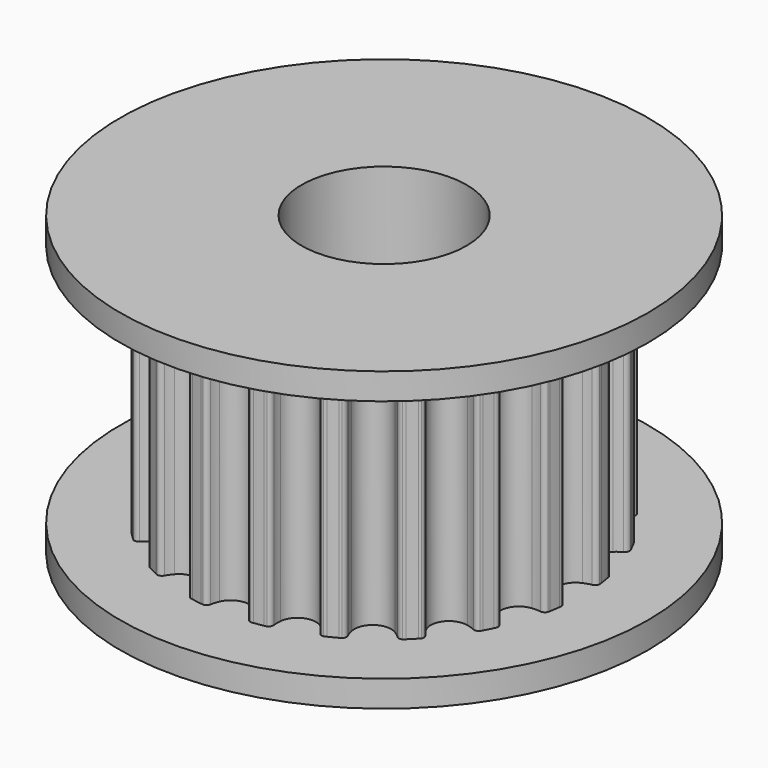
from build123d import *

# Parameters (mm, degrees)
F1_DEPTH = 7.4
F2_R     = 8
F3_DEPTH = 0.8
F4_R     = 8
F5_DEPTH = 0.8
F6_R     = 2.5
F7_DEPTH = 9.001


with BuildPart() as f1:
    # F0 (on Top) → F1 (new body)
    with BuildSketch(Plane.XY):
        with BuildLine():
            ThreePointArc((-0.513747, -5.595026), (0, -5.25), (0.513747, -5.595026))
            ThreePointArc((0.513747, -5.595026), (0.559269, -5.712589), (0.589638, -5.834946))
            ThreePointArc((0.589638, -5.834946), (0.634012, -5.91692), (0.718237, -5.956856))
            ThreePointArc((0.718237, -5.956856), (0.75551, -5.952244), (0.792754, -5.947398))
            ThreePointArc((0.792754, -5.947398), (0.938607, -5.92613), (1.083893, -5.901286))
            ThreePointArc((1.083893, -5.901286), (1.120812, -5.894386), (1.157686, -5.887254))
            ThreePointArc((1.157686, -5.887254), (1.225448, -5.823246), (1.242318, -5.731572))
            ThreePointArc((1.242318, -5.731572), (1.233391, -5.605819), (1.240356, -5.479943))
            ThreePointArc((1.240356, -5.479943), (1.622339, -4.993047), (2.217561, -5.162429))
            ThreePointArc((2.217561, -5.162429), (2.297184, -5.260172), (2.363877, -5.367155))
            ThreePointArc((2.363877, -5.367155), (2.43141, -5.431405), (2.523854, -5.44336))
            ThreePointArc((2.523854, -5.44336), (2.557877, -5.427455), (2.591801, -5.411337))
            ThreePointArc((2.591801, -5.411337), (2.723943, -5.346039), (2.854442, -5.277515))
            ThreePointArc((2.854442, -5.277515), (2.887421, -5.259544), (2.920286, -5.241367))
            ThreePointArc((2.920286, -5.241367), (2.964952, -5.159552), (2.952668, -5.067151))
            ThreePointArc((2.952668, -5.067151), (2.905317, -4.950312), (2.873044, -4.828444))
            ThreePointArc((2.873044, -4.828444), (3.085873, -4.247339), (3.704304, -4.224498))
            ThreePointArc((3.704304, -4.224498), (3.810234, -4.292852), (3.906722, -4.37399))
            ThreePointArc((3.906722, -4.37399), (3.990805, -4.414226), (4.082418, -4.397029))
            ThreePointArc((4.082418, -4.397029), (4.109862, -4.371389), (4.137144, -4.345577))
            ThreePointArc((4.137144, -4.345577), (4.242641, -4.242641), (4.345577, -4.137144))
            ThreePointArc((4.345577, -4.137144), (4.371389, -4.109862), (4.397029, -4.082418))
            ThreePointArc((4.397029, -4.082418), (4.414226, -3.990805), (4.37399, -3.906722))
            ThreePointArc((4.37399, -3.906722), (4.292852, -3.810234), (4.224498, -3.704304))
            ThreePointArc((4.224498, -3.704304), (4.247339, -3.085873), (4.828444, -2.873044))
            ThreePointArc((4.828444, -2.873044), (4.950312, -2.905317), (5.067151, -2.952668))
            ThreePointArc((5.067151, -2.952668), (5.159552, -2.964952), (5.241367, -2.920286))
            ThreePointArc((5.241367, -2.920286), (5.259544, -2.887421), (5.277515, -2.854442))
            ThreePointArc((5.277515, -2.854442), (5.346039, -2.723943), (5.411337, -2.591801))
            ThreePointArc((5.411337, -2.591801), (5.443243, -2.467372), (5.367155, -2.363877))
            ThreePointArc((5.367155, -2.363877), (5.260172, -2.297184), (5.162429, -2.217561))
            ThreePointArc((5.162429, -2.217561), (4.993047, -1.622339), (5.479943, -1.240356))
            ThreePointArc((5.479943, -1.240356), (5.605819, -1.233391), (5.731572, -1.242318))
            ThreePointArc((5.731572, -1.242318), (5.823246, -1.225448), (5.887254, -1.157686))
            ThreePointArc((5.887254, -1.157686), (5.894386, -1.120812), (5.901286, -1.083893))
            ThreePointArc((5.901286, -1.083893), (5.92613, -0.938607), (5.947398, -0.792754))
            ThreePointArc((5.947398, -0.792754), (5.952244, -0.75551), (5.956856, -0.718237))
            ThreePointArc((5.956856, -0.718237), (5.91692, -0.634012), (5.834946, -0.589638))
            ThreePointArc((5.834946, -0.589638), (5.712589, -0.559269), (5.595026, -0.513747))
            ThreePointArc((5.595026, -0.513747), (5.25, 0), (5.595026, 0.513747))
            ThreePointArc((5.595026, 0.513747), (5.712589, 0.559269), (5.834946, 0.589638))
            ThreePointArc((5.834946, 0.589638), (5.91692, 0.634012), (5.956856, 0.718237))
            ThreePointArc((5.956856, 0.718237), (5.952244, 0.75551), (5.947398, 0.792754))
            ThreePointArc((5.947398, 0.792754), (5.92613, 0.938607), (5.901286, 1.083893))
            ThreePointArc((5.901286, 1.083893), (5.894386, 1.120812), (5.887254, 1.157686))
            ThreePointArc((5.887254, 1.157686), (5.823246, 1.225448), (5.731572, 1.242318))
            ThreePointArc((5.731572, 1.242318), (5.605819, 1.233391), (5.479943, 1.240356))
            ThreePointArc((5.479943, 1.240356), (4.993047, 1.622339), (5.162429, 2.217561))
            ThreePointArc((5.162429, 2.217561), (5.260172, 2.297184), (5.367155, 2.363877))
            ThreePointArc((5.367155, 2.363877), (5.431405, 2.43141), (5.44336, 2.523854))
            ThreePointArc((5.44336, 2.523854), (5.427455, 2.557877), (5.411337, 2.591801))
            ThreePointArc((5.411337, 2.591801), (5.346039, 2.723943), (5.277515, 2.854442))
            ThreePointArc((5.277515, 2.854442), (5.259544, 2.887421), (5.241367, 2.920286))
            ThreePointArc((5.241367, 2.920286), (5.159552, 2.964952), (5.067151, 2.952668))
            ThreePointArc((5.067151, 2.952668), (4.950312, 2.905317), (4.828444, 2.873044))
            ThreePointArc((4.828444, 2.873044), (4.247339, 3.085873), (4.224498, 3.704304))
            ThreePointArc((4.224498, 3.704304), (4.292852, 3.810234), (4.37399, 3.906722))
            ThreePointArc((4.37399, 3.906722), (4.414226, 3.990805), (4.397029, 4.082418))
            ThreePointArc((4.397029, 4.082418), (4.371389, 4.109862), (4.345577, 4.137144))
            ThreePointArc((4.345577, 4.137144), (4.242641, 4.242641), (4.137144, 4.345577))
            ThreePointArc((4.137144, 4.345577), (4.109862, 4.371389), (4.082418, 4.397029))
            ThreePointArc((4.082418, 4.397029), (3.990805, 4.414226), (3.906722, 4.37399))
            ThreePointArc((3.906722, 4.37399), (3.810234, 4.292852), (3.704304, 4.224498))
            ThreePointArc((3.704304, 4.224498), (3.085873, 4.247339), (2.873044, 4.828444))
            ThreePointArc((2.873044, 4.828444), (2.905317, 4.950312), (2.952668, 5.067151))
            ThreePointArc((2.952668, 5.067151), (2.964952, 5.159552), (2.920286, 5.241367))
            ThreePointArc((2.920286, 5.241367), (2.887421, 5.259544), (2.854442, 5.277515))
            ThreePointArc((2.854442, 5.277515), (2.723943, 5.346039), (2.591801, 5.411337))
            ThreePointArc((2.591801, 5.411337), (2.557877, 5.427455), (2.523854, 5.44336))
            ThreePointArc((2.523854, 5.44336), (2.43141, 5.431405), (2.363877, 5.367155))
            ThreePointArc((2.363877, 5.367155), (2.297184, 5.260172), (2.217561, 5.162429))
            ThreePointArc((2.217561, 5.162429), (1.622339, 4.993047), (1.240356, 5.479943))
            ThreePointArc((1.240356, 5.479943), (1.233391, 5.605819), (1.242318, 5.731572))
            ThreePointArc((1.242318, 5.731572), (1.225448, 5.823246), (1.157686, 5.887254))
            ThreePointArc((1.157686, 5.887254), (1.120812, 5.894386), (1.083893, 5.901286))
            ThreePointArc((1.083893, 5.901286), (0.938607, 5.92613), (0.792754, 5.947398))
            ThreePointArc((0.792754, 5.947398), (0.75551, 5.952244), (0.718237, 5.956856))
            ThreePointArc((0.718237, 5.956856), (0.634012, 5.91692), (0.589638, 5.834946))
            ThreePointArc((0.589638, 5.834946), (0.559269, 5.712589), (0.513747, 5.595026))
            ThreePointArc((0.513747, 5.595026), (0, 5.25), (-0.513747, 5.595026))
            ThreePointArc((-0.513747, 5.595026), (-0.559269, 5.712589), (-0.589638, 5.834946))
            ThreePointArc((-0.589638, 5.834946), (-0.634012, 5.91692), (-0.718237, 5.956856))
            ThreePointArc((-0.718237, 5.956856), (-0.75551, 5.952244), (-0.792754, 5.947398))
            ThreePointArc((-0.792754, 5.947398), (-0.938607, 5.92613), (-1.083893, 5.901286))
            ThreePointArc((-1.083893, 5.901286), (-1.120812, 5.894386), (-1.157686, 5.887254))
            ThreePointArc((-1.157686, 5.887254), (-1.225448, 5.823246), (-1.242318, 5.731572))
            ThreePointArc((-1.242318, 5.731572), (-1.233391, 5.605819), (-1.240356, 5.479943))
            ThreePointArc((-1.240356, 5.479943), (-1.622339, 4.993047), (-2.217561, 5.162429))
            ThreePointArc((-2.217561, 5.162429), (-2.297184, 5.260172), (-2.363877, 5.367155))
            ThreePointArc((-2.363877, 5.367155), (-2.43141, 5.431405), (-2.523854, 5.44336))
            ThreePointArc((-2.523854, 5.44336), (-2.557877, 5.427455), (-2.591801, 5.411337))
            ThreePointArc((-2.591801, 5.411337), (-2.723943, 5.346039), (-2.854442, 5.277515))
            ThreePointArc((-2.854442, 5.277515), (-2.887421, 5.259544), (-2.920286, 5.241367))
            ThreePointArc((-2.920286, 5.241367), (-2.964952, 5.159552), (-2.952668, 5.067151))
            ThreePointArc((-2.952668, 5.067151), (-2.905317, 4.950312), (-2.873044, 4.828444))
            ThreePointArc((-2.873044, 4.828444), (-3.085873, 4.247339), (-3.704304, 4.224498))
            ThreePointArc((-3.704304, 4.224498), (-3.810234, 4.292852), (-3.906722, 4.37399))
            ThreePointArc((-3.906722, 4.37399), (-3.990805, 4.414226), (-4.082418, 4.397029))
            ThreePointArc((-4.082418, 4.397029), (-4.109862, 4.371389), (-4.137144, 4.345577))
            ThreePointArc((-4.137144, 4.345577), (-4.242641, 4.242641), (-4.345577, 4.137144))
            ThreePointArc((-4.345577, 4.137144), (-4.371389, 4.109862), (-4.397029, 4.082418))
            ThreePointArc((-4.397029, 4.082418), (-4.414226, 3.990805), (-4.37399, 3.906722))
            ThreePointArc((-4.37399, 3.906722), (-4.292852, 3.810234), (-4.224498, 3.704304))
            ThreePointArc((-4.224498, 3.704304), (-4.247339, 3.085873), (-4.828444, 2.873044))
            ThreePointArc((-4.828444, 2.873044), (-4.950312, 2.905317), (-5.067151, 2.952668))
            ThreePointArc((-5.067151, 2.952668), (-5.159552, 2.964952), (-5.241367, 2.920286))
            ThreePointArc((-5.241367, 2.920286), (-5.259544, 2.887421), (-5.277515, 2.854442))
            ThreePointArc((-5.277515, 2.854442), (-5.346039, 2.723943), (-5.411337, 2.591801))
            ThreePointArc((-5.411337, 2.591801), (-5.427455, 2.557877), (-5.44336, 2.523854))
            ThreePointArc((-5.44336, 2.523854), (-5.431405, 2.43141), (-5.367155, 2.363877))
            ThreePointArc((-5.367155, 2.363877), (-5.260172, 2.297184), (-5.162429, 2.217561))
            ThreePointArc((-5.162429, 2.217561), (-4.993047, 1.622339), (-5.479943, 1.240356))
            ThreePointArc((-5.479943, 1.240356), (-5.605819, 1.233391), (-5.731572, 1.242318))
            ThreePointArc((-5.731572, 1.242318), (-5.823246, 1.225448), (-5.887254, 1.157686))
            ThreePointArc((-5.887254, 1.157686), (-5.894386, 1.120812), (-5.901286, 1.083893))
            ThreePointArc((-5.901286, 1.083893), (-5.92613, 0.938607), (-5.947398, 0.792754))
            ThreePointArc((-5.947398, 0.792754), (-5.952244, 0.75551), (-5.956856, 0.718237))
            ThreePointArc((-5.956856, 0.718237), (-5.91692, 0.634012), (-5.834946, 0.589638))
            ThreePointArc((-5.834946, 0.589638), (-5.712589, 0.559269), (-5.595026, 0.513747))
            ThreePointArc((-5.595026, 0.513747), (-5.25, 0), (-5.595026, -0.513747))
            ThreePointArc((-5.595026, -0.513747), (-5.712589, -0.559269), (-5.834946, -0.589638))
            ThreePointArc((-5.834946, -0.589638), (-5.91692, -0.634012), (-5.956856, -0.718237))
            ThreePointArc((-5.956856, -0.718237), (-5.952244, -0.75551), (-5.947398, -0.792754))
            ThreePointArc((-5.947398, -0.792754), (-5.92613, -0.938607), (-5.901286, -1.083893))
            ThreePointArc((-5.901286, -1.083893), (-5.894386, -1.120812), (-5.887254, -1.157686))
            ThreePointArc((-5.887254, -1.157686), (-5.823246, -1.225448), (-5.731572, -1.242318))
            ThreePointArc((-5.731572, -1.242318), (-5.605819, -1.233391), (-5.479943, -1.240356))
            ThreePointArc((-5.479943, -1.240356), (-4.993047, -1.622339), (-5.162429, -2.217561))
            ThreePointArc((-5.162429, -2.217561), (-5.260172, -2.297184), (-5.367155, -2.363877))
            ThreePointArc((-5.367155, -2.363877), (-5.431405, -2.43141), (-5.44336, -2.523854))
            ThreePointArc((-5.44336, -2.523854), (-5.427455, -2.557877), (-5.411337, -2.591801))
            ThreePointArc((-5.411337, -2.591801), (-5.346039, -2.723943), (-5.277515, -2.854442))
            ThreePointArc((-5.277515, -2.854442), (-5.259544, -2.887421), (-5.241367, -2.920286))
            ThreePointArc((-5.241367, -2.920286), (-5.159552, -2.964952), (-5.067151, -2.952668))
            ThreePointArc((-5.067151, -2.952668), (-4.950312, -2.905317), (-4.828444, -2.873044))
            ThreePointArc((-4.828444, -2.873044), (-4.247339, -3.085873), (-4.224498, -3.704304))
            ThreePointArc((-4.224498, -3.704304), (-4.292852, -3.810234), (-4.37399, -3.906722))
            ThreePointArc((-4.37399, -3.906722), (-4.414226, -3.990805), (-4.397029, -4.082418))
            ThreePointArc((-4.397029, -4.082418), (-4.371389, -4.109862), (-4.345577, -4.137144))
            ThreePointArc((-4.345577, -4.137144), (-4.242641, -4.242641), (-4.137144, -4.345577))
            ThreePointArc((-4.137144, -4.345577), (-4.109862, -4.371389), (-4.082418, -4.397029))
            ThreePointArc((-4.082418, -4.397029), (-3.990805, -4.414226), (-3.906722, -4.37399))
            ThreePointArc((-3.906722, -4.37399), (-3.810234, -4.292852), (-3.704304, -4.224498))
            ThreePointArc((-3.704304, -4.224498), (-3.085873, -4.247339), (-2.873044, -4.828444))
            ThreePointArc((-2.873044, -4.828444), (-2.905317, -4.950312), (-2.952668, -5.067151))
            ThreePointArc((-2.952668, -5.067151), (-2.964952, -5.159552), (-2.920286, -5.241367))
            ThreePointArc((-2.920286, -5.241367), (-2.887421, -5.259544), (-2.854442, -5.277515))
            ThreePointArc((-2.854442, -5.277515), (-2.723943, -5.346039), (-2.591801, -5.411337))
            ThreePointArc((-2.591801, -5.411337), (-2.557877, -5.427455), (-2.523854, -5.44336))
            ThreePointArc((-2.523854, -5.44336), (-2.43141, -5.431405), (-2.363877, -5.367155))
            ThreePointArc((-2.363877, -5.367155), (-2.297184, -5.260172), (-2.217561, -5.162429))
            ThreePointArc((-2.217561, -5.162429), (-1.622339, -4.993047), (-1.240356, -5.479943))
            ThreePointArc((-1.240356, -5.479943), (-1.233391, -5.605819), (-1.242318, -5.731572))
            ThreePointArc((-1.242318, -5.731572), (-1.225448, -5.823246), (-1.157686, -5.887254))
            ThreePointArc((-1.157686, -5.887254), (-1.120812, -5.894386), (-1.083893, -5.901286))
            ThreePointArc((-1.083893, -5.901286), (-0.938607, -5.92613), (-0.792754, -5.947398))
            ThreePointArc((-0.792754, -5.947398), (-0.75551, -5.952244), (-0.718237, -5.956856))
            ThreePointArc((-0.718237, -5.956856), (-0.634012, -5.91692), (-0.589638, -5.834946))
            ThreePointArc((-0.589638, -5.834946), (-0.559269, -5.712589), (-0.513747, -5.595026))
        make_face()
    extrude(amount=F1_DEPTH)

    # F2 (on face) → F3 (join)
    with BuildSketch(Plane(origin=(0, 0, 0), x_dir=(1, 0, 0), z_dir=(0, 0, -1))):
        Circle(F2_R)
    extrude(amount=F3_DEPTH)

    # F4 (on face) → F5 (join)
    with BuildSketch(Plane.XY.offset(7.4)):
        Circle(F4_R)
    extrude(amount=F5_DEPTH)

    # F6 (on face) → F7 (cut, through all)
    with BuildSketch(Plane(origin=(0, 0, -0.8), x_dir=(1, 0, 0), z_dir=(0, 0, -1))):
        Circle(F6_R)
    extrude(amount=-F7_DEPTH, mode=Mode.SUBTRACT)


solid = f1.part
